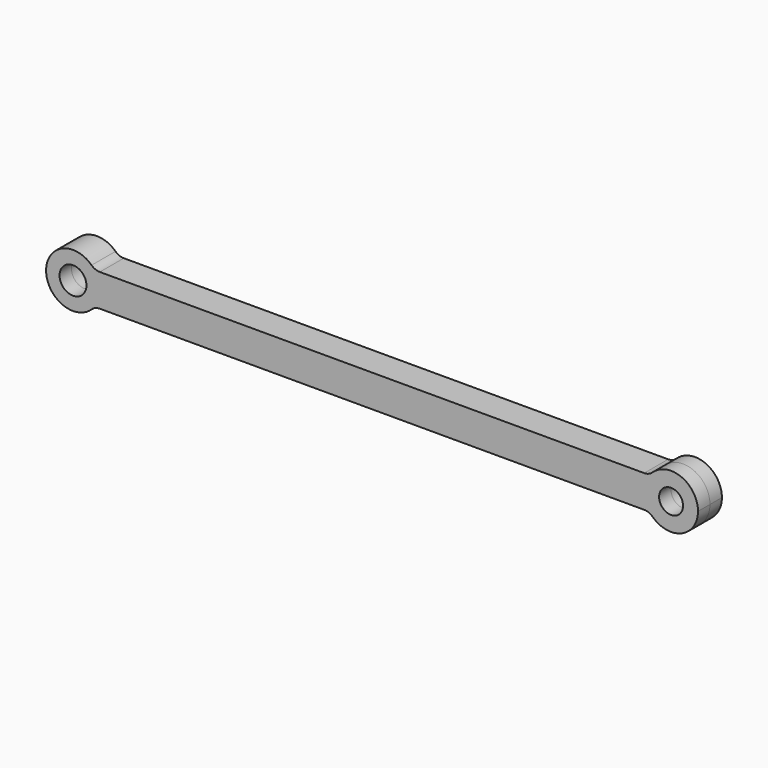
from build123d import *

# Parameters (mm, degrees)
F0_R     = 2.25
F0_R_2   = 2
F1_DEPTH = 2.5
F2_R     = 2


with BuildPart() as f1:
    # F0 (on Front) → F1 (new body, symmetric)
    with BuildSketch(Plane.XZ):
        with BuildLine():
            ThreePointArc((3.5986671115, -2.7017762714), (4.2687235798, -1.4240782981), (4.5, 0))
            ThreePointArc((4.5, 0), (4.2687235798, 1.4240782981), (3.5986671115, 2.7017762714))
            ThreePointArc((3.5986671115, 2.7017762714), (-4.5, 0), (3.5986671115, -2.7017762714))
        make_face()
        Circle(F0_R, mode=Mode.SUBTRACT)
        with BuildLine():
            ThreePointArc((3.5986671115, 2.7017762714), (4.2687235798, 1.4240782981), (4.5, 0))
            ThreePointArc((4.5, 0), (4.2687235798, -1.4240782981), (3.5986671115, -2.7017762714))
            Line((3.5986671115, -2.7017762714), (96.4013328885, -2.7017762714))
            ThreePointArc((96.4013328885, -2.7017762714), (95.5, 0), (96.4013328885, 2.7017762714))
            Line((96.4013328885, 2.7017762714), (3.5986671115, 2.7017762714))
        make_face()
        with BuildLine():
            ThreePointArc((104.5, 0), (101.4240782981, 4.2687235798), (96.4013328885, 2.7017762714))
            ThreePointArc((96.4013328885, 2.7017762714), (95.5, 0), (96.4013328885, -2.7017762714))
            ThreePointArc((96.4013328885, -2.7017762714), (101.4240782981, -4.2687235798), (104.5, 0))
        make_face()
        with Locations((100, 0)):
            Circle(F0_R_2, mode=Mode.SUBTRACT)
    extrude(amount=F1_DEPTH, both=True)

    # F2
    f2_edges = [f1.edges().sort_by_distance(p)[0] for p in [
        (3.598667, 0, 2.701776),
        (96.401333, 0, 2.701776),
        (3.598667, 0, -2.701776),
        (96.401333, 0, -2.701776),
    ]]
    fillet(f2_edges, radius=F2_R)


solid = f1.part
